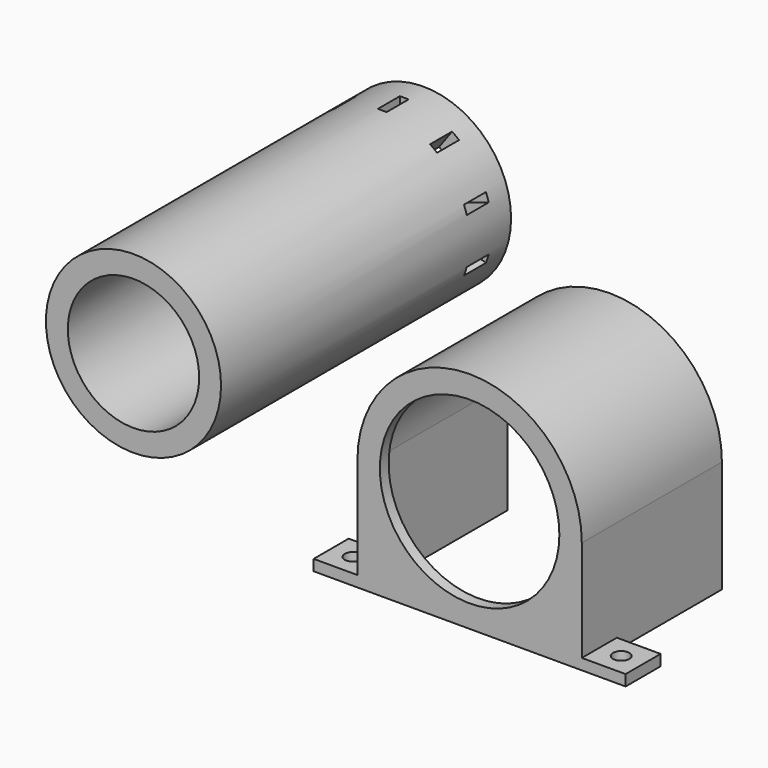
from build123d import *

# Parameters (mm, degrees)
F0_R           = 26.035
F1_DEPTH       = 114.3
F2_R           = 29.6242543491
F3_DEPTH       = 111.125
F5_DEPTH       = 111.125
F7_DEPTH       = 3.175
F8_W           = 12.7
F8_H           = 12.7
F9_DEPTH       = 3.175
F10_R          = 2.38125
F11_DEPTH      = 25.4
F12_R          = 25.4
F12_R_2        = 19.05
F13_DEPTH      = 105.156
F14_W          = 2.54
F14_H          = 7.9642278678
F15_DEPTH      = 32.766
F16_COUNT      = 10
F17_W          = 59.2485086981
F17_H          = 9.525
F18_DEPTH      = 25.4
F19_W          = 132.8420794986
F19_H          = 63.5
F20_DEPTH      = 65.278
F20_DEPTH_BACK = 64.77


with BuildPart() as f1:
    # F0 (on Front) → F1 (new body)
    with BuildSketch(Plane.XZ):
        with BuildLine():
            Line((-32.54375, -32.54375), (0, -32.54375))
            Line((0, -32.54375), (32.54375, -32.54375))
            Line((32.54375, -32.54375), (32.54375, 0))
            ThreePointArc((32.54375, 0), (0, 32.54375), (-32.54375, 0))
            Line((-32.54375, 0), (-32.54375, -32.54375))
        make_face()
        Circle(F0_R, mode=Mode.SUBTRACT)
    extrude(amount=F1_DEPTH)

    # F2 (on face) → F3 (cut)
    with BuildSketch(Plane(origin=(0, 0, 0), x_dir=(-1, 0, 0), z_dir=(0, 1, 0))):
        Circle(F2_R)
    extrude(amount=-F3_DEPTH, mode=Mode.SUBTRACT)

    # F4 (on face) → F5 (cut)
    with BuildSketch(Plane(origin=(0, 0, 0), x_dir=(-1, 0, 0), z_dir=(0, 1, 0))):
        Polygon((-29.6242543491, -49.9954782426), (0, -49.9954782426), (29.6242543491, -49.9954782426), (29.6242543491, 0), (0, 0), (-29.6242543491, 0), align=None)
    extrude(amount=-F5_DEPTH, mode=Mode.SUBTRACT)

    # F6 (on face) → F7 (join)
    with BuildSketch(Plane(origin=(0, 0, -32.54375), x_dir=(1, 0, 0), z_dir=(0, 0, -1))):
        Polygon((45.24375, 114.3), (0, 114.3), (-45.24375, 114.3), (-45.24375, 101.6), (-32.54375, 101.6), (0, 101.6), (32.54375, 101.6), (45.24375, 101.6), align=None)
    extrude(amount=-F7_DEPTH)

    # F8 (on face) → F9 (join)
    with BuildSketch(Plane(origin=(0, 0, -32.54375), x_dir=(1, 0, 0), z_dir=(0, 0, -1))):
        with Locations((-38.89375, 57.15)):
            Rectangle(F8_W, F8_H)
        with Locations((38.89375, 57.15)):
            Rectangle(F8_W, F8_H)
    extrude(amount=-F9_DEPTH)

    # F10 (on face) → F11 (cut)
    with BuildSketch(Plane.XY.offset(-29.36875)):
        with Locations((-38.89375, -57.15)):
            Circle(F10_R)
        with Locations((-38.89375, -107.95)):
            Circle(F10_R)
        with Locations((38.89375, -57.15)):
            Circle(F10_R)
        with Locations((38.8937518001, -107.95)):
            Circle(F10_R)
    extrude(amount=-F11_DEPTH, mode=Mode.SUBTRACT)

    # F17 (on face) → F18 (cut)
    with BuildSketch(Plane.XY.offset(-29.36875)):
        with Locations((0, -106.3625)):
            Rectangle(F17_W, F17_H)
    extrude(amount=-F18_DEPTH, mode=Mode.SUBTRACT)

    # F19 (on Top) → F20 (cut, two sides)
    with BuildSketch(Plane.XY) as f20_sk:
        with Locations((4.5964045951, -31.75)):
            Rectangle(F19_W, F19_H)
    extrude(amount=-F20_DEPTH, mode=Mode.SUBTRACT)
    extrude(f20_sk.sketch, amount=F20_DEPTH_BACK, mode=Mode.SUBTRACT)


with BuildPart() as f13:
    # F12 (on Front) → F13 (new body)
    with BuildSketch(Plane.XZ):
        with Locations((-104.8119291663, 0)):
            Circle(F12_R)
        with Locations((-104.8119291663, 0)):
            Circle(F12_R_2, mode=Mode.SUBTRACT)
    extrude(amount=F13_DEPTH)


with BuildPart() as f15:
    # F14 (on Top) → F15 (new body)
    with BuildSketch(Plane.XY):
        with Locations((-104.8159544325, -11.0098046448)):
            Rectangle(F14_W, F14_H)
    extrude(amount=-F15_DEPTH)


with BuildPart() as f16_tool:
    # F16: F15 ×10 about axis
    f16_axis = Axis((-104.8119291663, 0, 0), (0, -1, 0))
    for i in range(1, F16_COUNT):
        add(f15.part.rotate(f16_axis, i * 360 / F16_COUNT))


with BuildPart() as f13_1:
    add(f13.part)

    # F16: cut by f16_tool
    add(f16_tool.part, mode=Mode.SUBTRACT)


with BuildPart() as f15_1:
    add(f15.part)

    # F16: cut by f16_tool
    add(f16_tool.part, mode=Mode.SUBTRACT)


with BuildPart() as f13_2:
    add(f13_1.part)

    # F16#seed: cut F15
    add(f15_1.part, mode=Mode.SUBTRACT)


solid = Compound([f1.part, f13_2.part])
